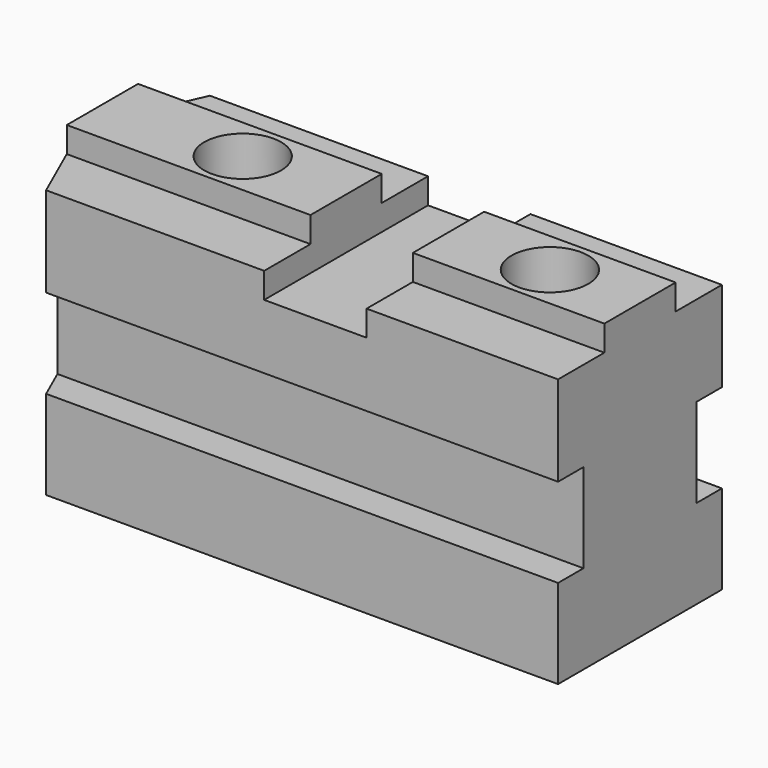
from build123d import *

# Parameters (mm, degrees)
F0_W      = 133.35
F0_H      = 22.098
F1_DEPTH  = 72.898
F2_DEPTH  = 66.548
F5_W      = 7.874
F5_H      = 22.098
F6_DEPTH  = 133.351
F8_W      = 25.4
F8_H      = 15.3760808487
F8_H_2    = 6.35
F9_DEPTH  = 50.801
F10_R     = 9.525
F11_DEPTH = 41.148


with BuildPart() as f1:
    # F0 (on Top) → F1 (new body)
    with BuildSketch(Plane.XY):
        with Locations((-23.8877614887, 21.7012270373)):
            Rectangle(F0_W, F0_H)
    extrude(amount=F1_DEPTH)

    # F0 (on Top) → F2 (join)
    with BuildSketch(Plane.XY):
        Polygon((42.7872385113, 47.1012270373), (-84.2127614887, 47.1012270373), (-90.5627614887, 32.7502270373), (42.7872385113, 32.7502270373), align=None)
        Polygon((42.7872385113, 10.6522270373), (-90.5627614887, 10.6522270373), (-84.2127614887, -3.6987729627), (42.7872385113, -3.6987729627), align=None)
    extrude(amount=F2_DEPTH)

    # F5 (on face) → F6 (cut, through all)
    with BuildSketch(Plane.YZ.offset(42.7872385113)):
        with Locations((0.2382270373, 33.147)):
            Rectangle(F5_W, F5_H)
    extrude(amount=-F6_DEPTH, mode=Mode.SUBTRACT)

    # F7: F1 across plane


with BuildPart() as f1_1:
    add(f1.part)
    add(f1.part.mirror(Plane(origin=(-20.7127614887, 21.7012270373, 33.274), x_dir=(1, 0, 0), z_dir=(0, -1, 0))), mode=Mode.INTERSECT)

    # F8 (on face) → F9 (cut, through all)
    with BuildSketch(Plane.XZ.offset(3.6987729627)):
        with Locations((-17.4107614887, 74.2360404243)):
            Rectangle(F8_W, F8_H)
        with Locations((-17.4107614887, 63.373)):
            Rectangle(F8_W, F8_H_2)
    extrude(amount=-F9_DEPTH, mode=Mode.SUBTRACT)

    # F10 (on face) → F11 (cut)
    with BuildSketch(Plane.XY.offset(72.898)):
        with Locations((-55.7647614887, 21.7012270373)):
            Circle(F10_R)
        with Locations((20.4352385113, 21.7012270373)):
            Circle(F10_R)
    extrude(amount=-F11_DEPTH, mode=Mode.SUBTRACT)


solid = f1_1.part
